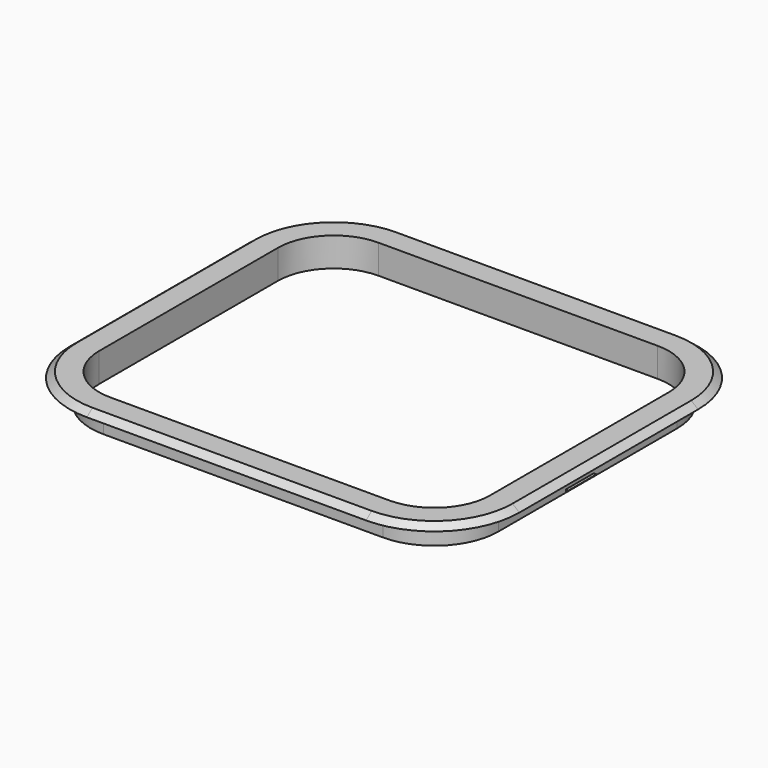
from build123d import *

# Parameters (mm, degrees)
F0_W     = 6
F0_H     = 16.8318616902
F4_DEPTH = 25


with BuildPart() as f2:
    # F2: sweep along a path in F1
    with BuildLine(Plane.XY) as f2_path:
        Line((-40, 114.765252769), (-240, 114.765252769))
        ThreePointArc((-240, 114.765252769), (-268.2842712475, 103.0495240165), (-280, 74.765252769))
        Line((-280, 74.765252769), (-280, -85.234747231))
        ThreePointArc((-280, -85.234747231), (-268.2842712475, -113.5190184785), (-240, -125.234747231))
        Line((-240, -125.234747231), (-40, -125.234747231))
        ThreePointArc((-40, -125.234747231), (-11.7157287525, -113.5190184785), (0, -85.234747231))
        Line((0, -85.234747231), (0, 74.765252769))
        ThreePointArc((0, 74.765252769), (-11.7157287525, 103.0495240165), (-40, 114.765252769))
    # F0 (on Front) → F2 (sweep)
    with BuildSketch(Plane.XZ):
        Polygon((0, 4), (0, 0), (6, 0), (16, 0), (16, 4), align=None)
        with Locations((3, -8.4159308451)):
            Rectangle(F0_W, F0_H)
        Polygon((16, 4), (16, 0), (21, 0), align=None)
    sweep(path=f2_path.line)


with BuildPart() as f4:
    # F3 (on Front) → F4 (new body)
    with BuildSketch(Plane.XZ):
        Polygon((8.0447122901, -14.7590936869), (6.0244281776, -14.7590936869), (6.0244281776, -16.8002173305), align=None)
    extrude(amount=F4_DEPTH)


solid = Compound([f2.part, f4.part])
